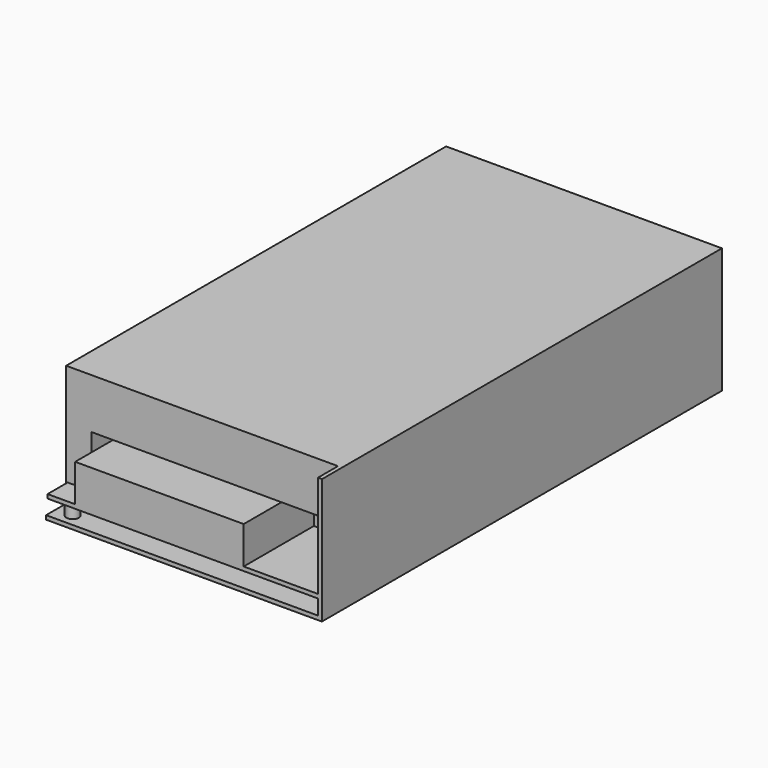
from build123d import *

# Parameters (mm, degrees)
F0_W     = 98.2
F0_H     = 0.6
F0_W_2   = 9.6
F0_W_3   = 0.6
F0_H_2   = 40.2
F0_H_3   = 1.6
F0_H_4   = 6
F0_W_4   = 107.8
F0_W_5   = 1.6
F0_H_5   = 19.4
F0_W_6   = 67.2
F0_H_6   = 14.9
F1_DEPTH = 189.4
F2_DEPTH = 10
F3_DEPTH = 25
F4_R     = 2.5
F5_DEPTH = 7.6


with BuildPart() as f1:
    # F0 (on Front) → F1 (new body)
    with BuildSketch(Plane.XZ):
        with Locations((59.3, 49.7)):
            Rectangle(F0_W, F0_H)
        with Locations((5.4, 49.7)):
            Rectangle(F0_W_2, F0_H)
        with Locations((0.3, 29.3)):
            Rectangle(F0_W_3, F0_H_2)
        with Locations((0.3, 8.4)):
            Rectangle(F0_W_3, F0_H_3)
        with Locations((0.3, 4.6)):
            Rectangle(F0_W_3, F0_H_4)
        with Locations((0.3, 0.8)):
            Rectangle(F0_W_3, F0_H_3)
        with Locations((54.5, 0.8)):
            Rectangle(F0_W_4, F0_H_3)
        Polygon((108.4, 1.6), (108.4, 0), (110, 0), (110, 49.4), (108.4, 49.4), (108.4, 30), (108.4, 9.2), (108.4, 7.6), align=None)
        with Locations((109.2, 49.7)):
            Rectangle(F0_W_5, F0_H)
        with Locations((0.3, 49.7)):
            Rectangle(F0_W_3, F0_H)
        Polygon((0.6, 9.2), (0.6, 7.6), (108.4, 7.6), (108.4, 9.2), (78.8, 9.2), (11.6, 9.2), (10.2, 9.2), align=None)
        Polygon((0.6, 49.4), (0.6, 9.2), (10.2, 9.2), (10.2, 30), (10.2, 49.4), align=None)
        with Locations((59.3, 39.7)):
            Rectangle(F0_W, F0_H_5)
        Polygon((78.8, 9.2), (108.4, 9.2), (108.4, 30), (10.2, 30), (10.2, 9.2), (11.6, 9.2), (11.6, 24.1), (78.8, 24.1), align=None)
        with Locations((45.2, 16.65)):
            Rectangle(F0_W_6, F0_H_6)
        with Locations((54.5, 4.6)):
            Rectangle(F0_W_4, F0_H_4)
    extrude(amount=-F1_DEPTH)

    # F0 (on Front) → F2 (join)
    with BuildSketch(Plane.XZ):
        with Locations((45.2, 16.65)):
            Rectangle(F0_W_6, F0_H_6)
        Polygon((108.4, 1.6), (108.4, 0), (110, 0), (110, 49.4), (108.4, 49.4), (108.4, 30), (108.4, 9.2), (108.4, 7.6), align=None)
        with Locations((54.5, 0.8)):
            Rectangle(F0_W_4, F0_H_3)
        with Locations((109.2, 49.7)):
            Rectangle(F0_W_5, F0_H)
        with Locations((0.3, 0.8)):
            Rectangle(F0_W_3, F0_H_3)
        Polygon((0.6, 9.2), (0.6, 7.6), (108.4, 7.6), (108.4, 9.2), (78.8, 9.2), (11.6, 9.2), (10.2, 9.2), align=None)
    extrude(amount=F2_DEPTH)

    # F0 (on Front) → F3 (cut)
    with BuildSketch(Plane.XZ):
        Polygon((78.8, 9.2), (108.4, 9.2), (108.4, 30), (10.2, 30), (10.2, 9.2), (11.6, 9.2), (11.6, 24.1), (78.8, 24.1), align=None)
    extrude(amount=-F3_DEPTH, mode=Mode.SUBTRACT)

    # F4 (on face) → F5 (join, through all)
    with BuildSketch(Plane.XY.offset(9.2)):
        with Locations((6.6, -5)):
            Circle(F4_R)
    extrude(amount=-F5_DEPTH)


solid = f1.part
